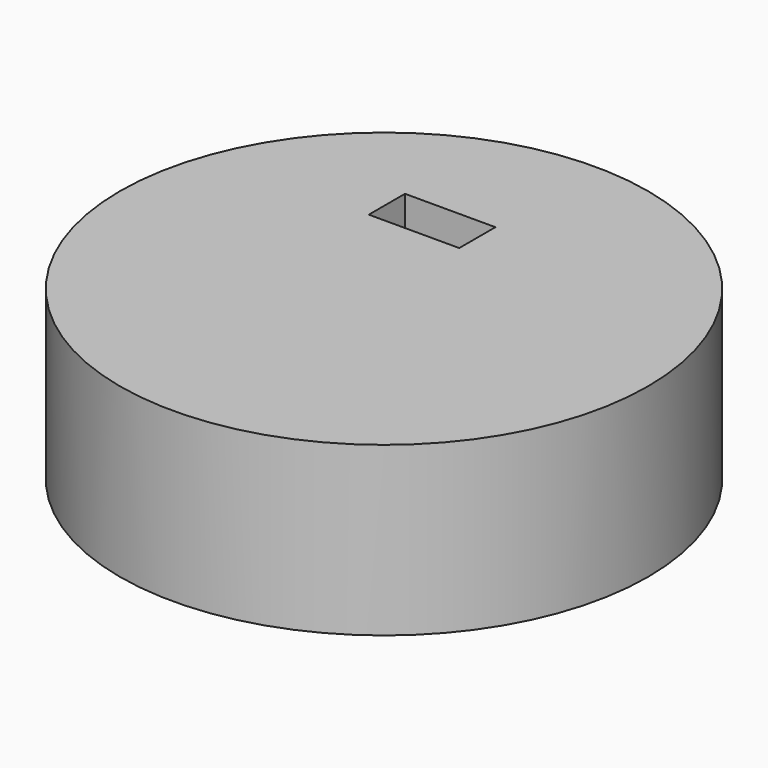
from build123d import *

# Parameters (mm, degrees)
F0_R     = 9.9949
F0_W     = 3.422887
F0_H     = 1.711445
F1_DEPTH = 6.35


with BuildPart() as f1:
    # F0 (on Top) → F1 (new body)
    with BuildSketch(Plane.XY):
        with Locations((13.009549, -19.535426)):
            Circle(F0_R)
        with Locations((11.409623, -15.260376)):
            Rectangle(F0_W, F0_H, mode=Mode.SUBTRACT)
    extrude(amount=F1_DEPTH)


solid = f1.part
